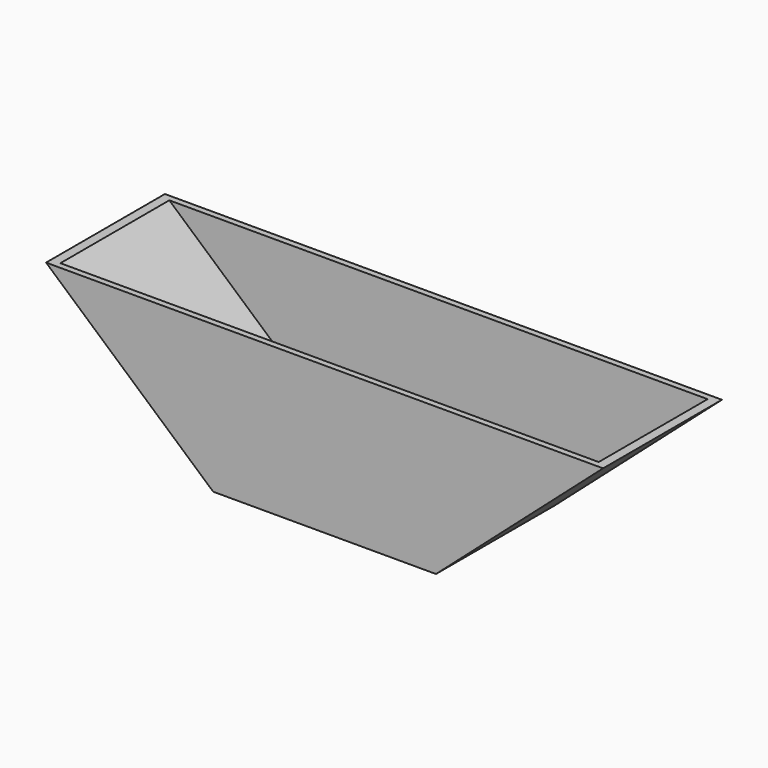
from build123d import *

# Parameters (mm, degrees)
F1_DEPTH = 8.466667
F2_T     = -0.705556


with BuildPart() as f1:
    # F0 (on Front) → F1 (new body, symmetric)
    with BuildSketch(Plane.XZ):
        Polygon((0, -14.907918), (25.4, -14.907918), (44.45, 1.892603), (-19.05, 1.892603), align=None)
    extrude(amount=F1_DEPTH, both=True)

    # F2
    f2_openings = [f1.faces().sort_by_distance(p)[0] for p in [
        (12.7, 0, 1.892603),
        (12.7, 0, -14.907918),
    ]]
    offset(amount=F2_T, openings=f2_openings)


solid = f1.part
